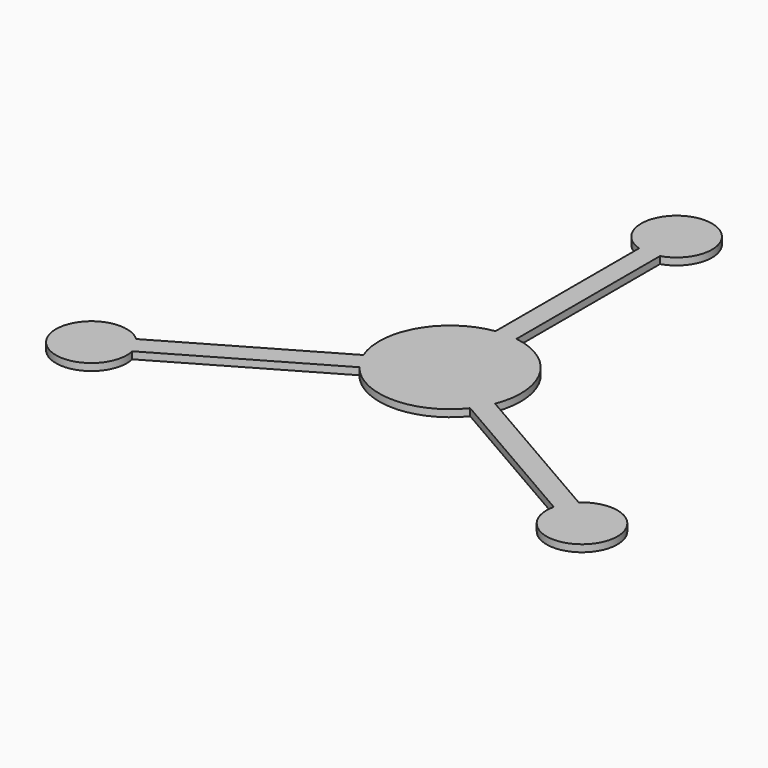
from build123d import *

# Parameters (mm, degrees)
F1_DEPTH = 3


with BuildPart() as f1:
    # F0 (on Top) → F1 (new body)
    with BuildSketch(Plane.XY):
        with BuildLine():
            Line((4.434425, 29.670455), (4.434425, 105.670455))
            ThreePointArc((4.434425, 105.670455), (0, 135), (-4.434425, 105.670455))
            Line((-4.434425, 105.670455), (-4.434425, 29.670455))
            ThreePointArc((-4.434425, 29.670455), (-25.980762, 15), (-27.91258, -10.994902))
            Line((-27.91258, -10.994902), (-93.730511, -48.994902))
            ThreePointArc((-93.730511, -48.994902), (-116.91343, -67.5), (-89.296085, -56.675552))
            Line((-89.296085, -56.675552), (-23.478155, -18.675552))
            ThreePointArc((-23.478155, -18.675552), (0, -30), (23.478155, -18.675552))
            Line((23.478155, -18.675552), (89.296085, -56.675552))
            ThreePointArc((89.296085, -56.675552), (116.91343, -67.5), (93.730511, -48.994902))
            Line((93.730511, -48.994902), (27.91258, -10.994902))
            ThreePointArc((27.91258, -10.994902), (25.980762, 15), (4.434425, 29.670455))
        make_face()
    extrude(amount=F1_DEPTH)


solid = f1.part
